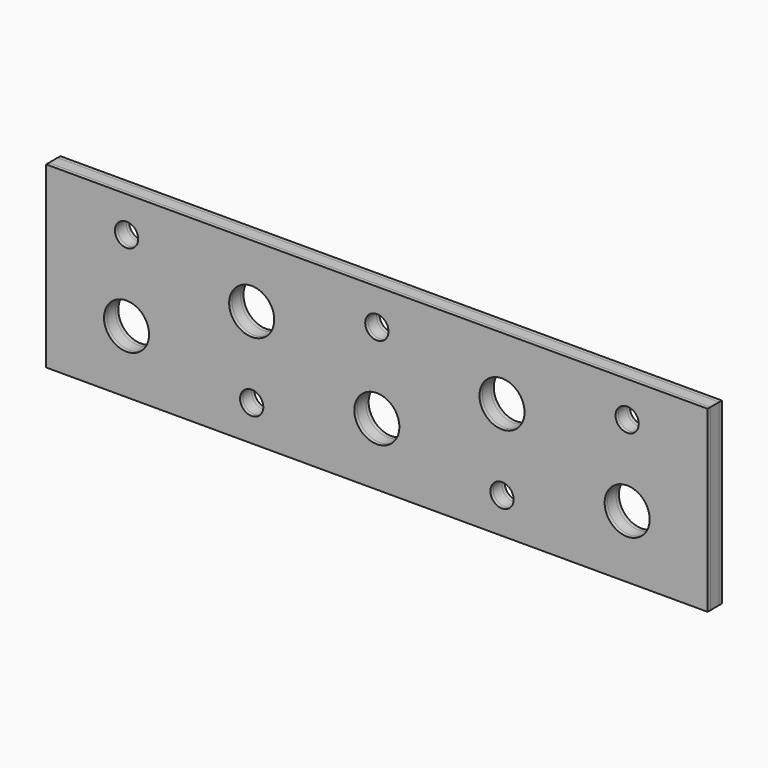
from build123d import *

# Parameters (mm, degrees)
F0_W     = 1850
F0_H     = 30
F1_DEPTH = 250
F2_W     = 1850
F2_H     = 500
F3_DEPTH = 10
F4_W     = 1850
F4_H     = 500
F5_DEPTH = 10
F6_R     = 32.5
F6_R_2   = 63
F7_DEPTH = 100


with BuildPart() as f1:
    # F0 (on Top) → F1 (new body, symmetric)
    with BuildSketch(Plane.XY):
        Rectangle(F0_W, F0_H)
    extrude(amount=F1_DEPTH, both=True)


with BuildPart() as f3:
    # F2 (on face) → F3 (new body)
    with BuildSketch(Plane.XZ.offset(15)):
        Rectangle(F2_W, F2_H)
    extrude(amount=F3_DEPTH)


with BuildPart() as f5:
    # F4 (on face) → F5 (new body)
    with BuildSketch(Plane(origin=(0, 15, 0), x_dir=(-1, 0, 0), z_dir=(0, 1, 0))):
        Rectangle(F4_W, F4_H)
    extrude(amount=F5_DEPTH)


with BuildPart() as f7_tool:
    # F6 (on face) → F7 (new body, symmetric)
    with BuildSketch(Plane.XZ.offset(15)):
        with Locations((-700, 150)):
            Circle(F6_R)
        with Locations((-350, 75)):
            Circle(F6_R_2)
        with Locations((-700, -75)):
            Circle(F6_R_2)
        with Locations((-350, -150)):
            Circle(F6_R)
        with Locations((0, 150)):
            Circle(F6_R)
        with Locations((0, -75)):
            Circle(F6_R_2)
        with Locations((350, 75)):
            Circle(F6_R_2)
        with Locations((350, -150)):
            Circle(F6_R)
        with Locations((700, 150)):
            Circle(F6_R)
        with Locations((700, -75)):
            Circle(F6_R_2)
    extrude(amount=F7_DEPTH, both=True)


with BuildPart() as f1_1:
    add(f1.part)

    # F7: cut by f7_tool
    add(f7_tool.part, mode=Mode.SUBTRACT)


with BuildPart() as f3_1:
    add(f3.part)

    # F7: cut by f7_tool
    add(f7_tool.part, mode=Mode.SUBTRACT)


with BuildPart() as f5_1:
    add(f5.part)

    # F7: cut by f7_tool
    add(f7_tool.part, mode=Mode.SUBTRACT)


solid = Compound([f1_1.part, f3_1.part, f5_1.part])
